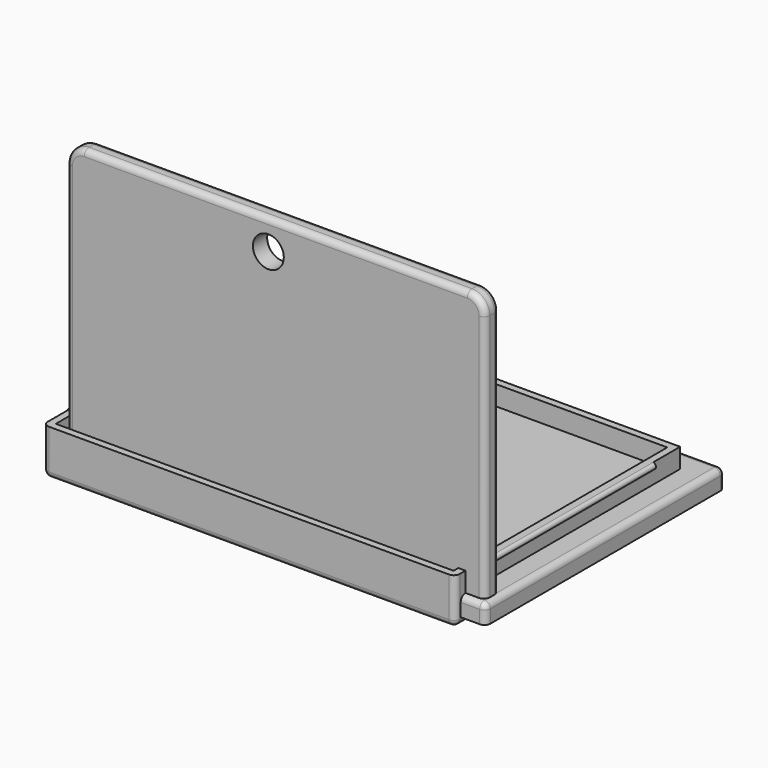
from build123d import *

# Parameters (mm, degrees)
TONGUE_LEFT_R             = 0.5
TONGUE_LEFT_DEPTH         = 36
TONGUE_RIGHT_R            = 0.5
TONGUE_RIGHT_DEPTH        = 36
CASE_INSIDE_W             = 67
CASE_INSIDE_H             = 45
CASE_INSIDE_DEPTH         = 6.5
CASE_OUTSIDE_W            = 69.4
CASE_OUTSIDE_H            = 47.4
CASE_OUTSIDE_DEPTH        = 7.7
FILLET_R                  = 1
CYLINDER_R                = 2.6
CYLINDER_DEPTH            = 10
BOX_W                     = 70.5
BOX_H                     = 3
BOX_DEPTH                 = 45
FILLET002_R               = 3
FILLET003_R               = 1
LID_GROOVE_LEFT_R         = 0.55
LID_GROOVE_LEFT_DEPTH     = 38
LID_GROOVE_RIGHT_R        = 0.55
LID_GROOVE_RIGHT_DEPTH    = 38
LID_INSIDE_W              = 70
LID_INSIDE_H              = 48
LID_INSIDE_DEPTH          = 2
LID_OUTSIDE_W             = 72.4
LID_OUTSIDE_H             = 50.4
LID_OUTSIDE_DEPTH         = 3.2
FILLET001_R               = 1
FILLET001_PLACEMENT_ANGLE = 180


with BuildPart() as tongue_left:
    # tongue_left → tongue_left (new body)
    with BuildSketch(Plane(origin=(-1.2, 4.5, 6), x_dir=(1, 0, 0), z_dir=(0, 1, 0))):
        Circle(TONGUE_LEFT_R)
    extrude(amount=TONGUE_LEFT_DEPTH)


with BuildPart() as tongue_right:
    # tongue_right → tongue_right (new body)
    with BuildSketch(Plane(origin=(68.2, 4.5, 6), x_dir=(1, 0, 0), z_dir=(0, 1, 0))):
        Circle(TONGUE_RIGHT_R)
    extrude(amount=TONGUE_RIGHT_DEPTH)


with BuildPart() as case_inside:
    # case_inside → case_inside (new body)
    with BuildSketch(Plane.XY):
        with Locations((33.5, 22.5)):
            Rectangle(CASE_INSIDE_W, CASE_INSIDE_H)
    extrude(amount=CASE_INSIDE_DEPTH)


with BuildPart() as fillet_body:
    # case_outside → case_outside (new body)
    with BuildSketch(Plane(origin=(-1.2, -1.2, -1.2), x_dir=(1, 0, 0), z_dir=(0, 0, 1))):
        with Locations((34.7, 23.7)):
            Rectangle(CASE_OUTSIDE_W, CASE_OUTSIDE_H)
    extrude(amount=CASE_OUTSIDE_DEPTH)

    # Cut: cut case_inside
    add(case_inside.part, mode=Mode.SUBTRACT)

    # Fusion: union tongue_left, tongue_right
    add(tongue_left.part)
    add(tongue_right.part)

    # Fillet
    fillet_edges = [fillet_body.edges().sort_by_distance(p)[0] for p in [
        (-1.2, 46.2, 2.65),
        (-1.2, 22.5, -1.2),
        (-1.2, -1.2, 2.65),
        (33.5, 46.2, -1.2),
        (33.5, -1.2, -1.2),
        (68.2, -1.2, 2.65),
        (68.2, 22.5, -1.2),
    ]]
    fillet(fillet_edges, radius=FILLET_R)


with BuildPart() as cylinder:
    # Cylinder → Cylinder (new body)
    with BuildSketch(Plane(origin=(35, 0, 43), x_dir=(1, 0, 0), z_dir=(0, 1, 0))):
        Circle(CYLINDER_R)
    extrude(amount=CYLINDER_DEPTH)


with BuildPart() as fillet003:
    # Box → Box (new body)
    with BuildSketch(Plane(origin=(1, 1, 3), x_dir=(1, 0, 0), z_dir=(0, 0, 1))):
        with Locations((35.25, 1.5)):
            Rectangle(BOX_W, BOX_H)
    extrude(amount=BOX_DEPTH)

    # Cut004: cut Cylinder
    add(cylinder.part, mode=Mode.SUBTRACT)

    # Fillet002
    fillet002_edges = [fillet003.edges().sort_by_distance(p)[0] for p in [
        (1, 2.5, 48),
        (71.5, 2.5, 48),
    ]]
    fillet(fillet002_edges, radius=FILLET002_R)

    # Fillet003
    fillet003_edges = [fillet003.edges().sort_by_distance(p)[0] for p in [
        (1, 1, 24),
        (1, 4, 24),
        (36.25, 1, 48),
        (36.25, 4, 48),
    ]]
    fillet(fillet003_edges, radius=FILLET003_R)


with BuildPart() as lid_groove_left:
    # lid_groove_left → lid_groove_left (new body)
    with BuildSketch(Plane(origin=(-1.5, 3.5, 0.5), x_dir=(1, 0, 0), z_dir=(0, 1, 0))):
        Circle(LID_GROOVE_LEFT_R)
    extrude(amount=LID_GROOVE_LEFT_DEPTH)


with BuildPart() as lid_groove_right:
    # lid_groove_right → lid_groove_right (new body)
    with BuildSketch(Plane(origin=(68.5, 3.5, 0.5), x_dir=(1, 0, 0), z_dir=(0, 1, 0))):
        Circle(LID_GROOVE_RIGHT_R)
    extrude(amount=LID_GROOVE_RIGHT_DEPTH)


with BuildPart() as lid_inside:
    # lid_inside → lid_inside (new body)
    with BuildSketch(Plane(origin=(-1.5, -1.5, 0), x_dir=(1, 0, 0), z_dir=(0, 0, 1))):
        with Locations((35, 24)):
            Rectangle(LID_INSIDE_W, LID_INSIDE_H)
    extrude(amount=LID_INSIDE_DEPTH)


with BuildPart() as lid_with_led_holder:
    # lid_outside → lid_outside (new body)
    with BuildSketch(Plane(origin=(-2.7, -2.7, -1.2), x_dir=(1, 0, 0), z_dir=(0, 0, 1))):
        with Locations((36.2, 25.2)):
            Rectangle(LID_OUTSIDE_W, LID_OUTSIDE_H)
    extrude(amount=LID_OUTSIDE_DEPTH)

    # Cut001: cut lid_inside
    add(lid_inside.part, mode=Mode.SUBTRACT)

    # Cut002: cut lid_groove_right
    add(lid_groove_right.part, mode=Mode.SUBTRACT)

    # Cut003: cut lid_groove_left
    add(lid_groove_left.part, mode=Mode.SUBTRACT)

    # Fillet001
    fillet001_edges = [lid_with_led_holder.edges().sort_by_distance(p)[0] for p in [
        (-2.7, -2.7, 0.4),
        (-2.7, 47.7, 0.4),
        (-2.7, 22.5, -1.2),
        (33.5, -2.7, -1.2),
        (69.7, -2.7, 0.4),
        (33.5, 47.7, -1.2),
        (69.7, 47.7, 0.4),
        (69.7, 22.5, -1.2),
    ]]
    fillet(fillet001_edges, radius=FILLET001_R)


with BuildPart() as lid_with_led_holder_1:
    # Fillet001 placement: moved
    add(lid_with_led_holder.part.moved(Location((2.7, 47.7, 2))).rotate(Axis((2.7, 47.7, 2), (1, 0, 0)), FILLET001_PLACEMENT_ANGLE))

    # Fusion001: union Fillet003
    add(fillet003.part)


solid = Compound([fillet_body.part, lid_with_led_holder_1.part])
